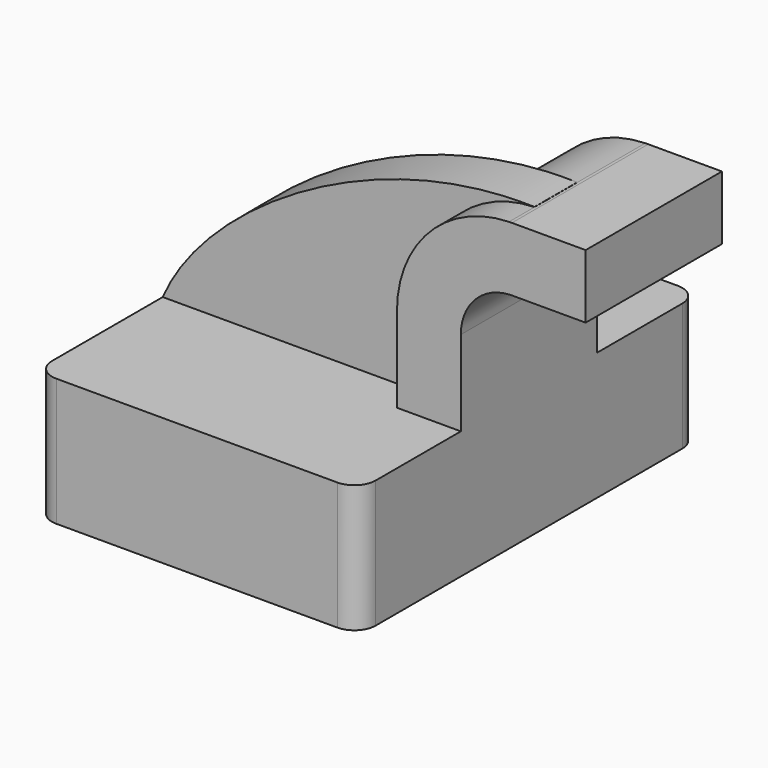
from build123d import *

# Parameters (mm, degrees)
F1_DEPTH = 63.5
F2_DEPTH = 25.4
F3_DEPTH = 15.875
F4_R     = 6.35


with BuildPart() as f1:
    # F0 (on Front) → F1 (new body, symmetric)
    with BuildSketch(Plane.XZ):
        Polygon((29.21, 19.05), (-48.26, 19.05), (-48.26, -19.05), (48.26, -19.05), (48.26, 19.05), align=None)
    extrude(amount=F1_DEPTH, both=True)

    # F0 (on Front) → F2 (join, symmetric)
    with BuildSketch(Plane.XZ):
        with BuildLine():
            Line((29.21, 44.45), (29.21, 19.05))
            Line((29.21, 19.05), (48.26, 19.05))
            Line((48.26, 19.05), (48.26, 44.45))
            ThreePointArc((48.26, 44.45), (52.418442, 54.912154), (62.624393, 59.664825))
            Line((62.624393, 59.664825), (62.624393, 78.728819))
            ThreePointArc((62.624393, 78.728819), (38.945686, 68.385116), (29.21, 44.45))
        make_face()
        with BuildLine():
            ThreePointArc((63.5, 78.74), (63.062161, 78.737205), (62.624393, 78.728819))
            Line((62.624393, 78.728819), (62.624393, 59.664825))
            ThreePointArc((62.624393, 59.664825), (63.062016, 59.683705), (63.5, 59.69))
            Line((63.5, 59.69), (85.484393, 59.69))
            Line((85.484393, 59.69), (85.484393, 78.74))
            Line((85.484393, 78.74), (63.5, 78.74))
        make_face()
    extrude(amount=F2_DEPTH, both=True)

    # F0 (on Front) → F3 (join)
    with BuildSketch(Plane.XZ):
        with BuildLine():
            add(Edge.make_bspline(
                [(-48.26, 19.05), (-35.762786, 48.370969), (14.062008, 80.255039), (62.624393, 78.770398)],
                knots=[0, 0, 0, 0, 125.944125, 125.944125, 125.944125, 125.944125], degree=3))
            Line((-48.26, 19.05), (29.21, 19.05))
            Line((29.21, 19.05), (29.21, 44.45))
            ThreePointArc((29.21, 44.45), (38.945686, 68.385116), (62.624393, 78.728819))
            Line((62.624393, 78.728819), (62.624393, 78.770398))
        make_face()
    extrude(amount=F3_DEPTH)

    # F4
    f4_edges = [f1.edges().sort_by_distance(p)[0] for p in [
        (48.26, -63.5, 0),
        (-48.26, -63.5, 0),
        (48.26, 63.5, 0),
        (-48.26, 63.5, 0),
    ]]
    fillet(f4_edges, radius=F4_R)


solid = f1.part
